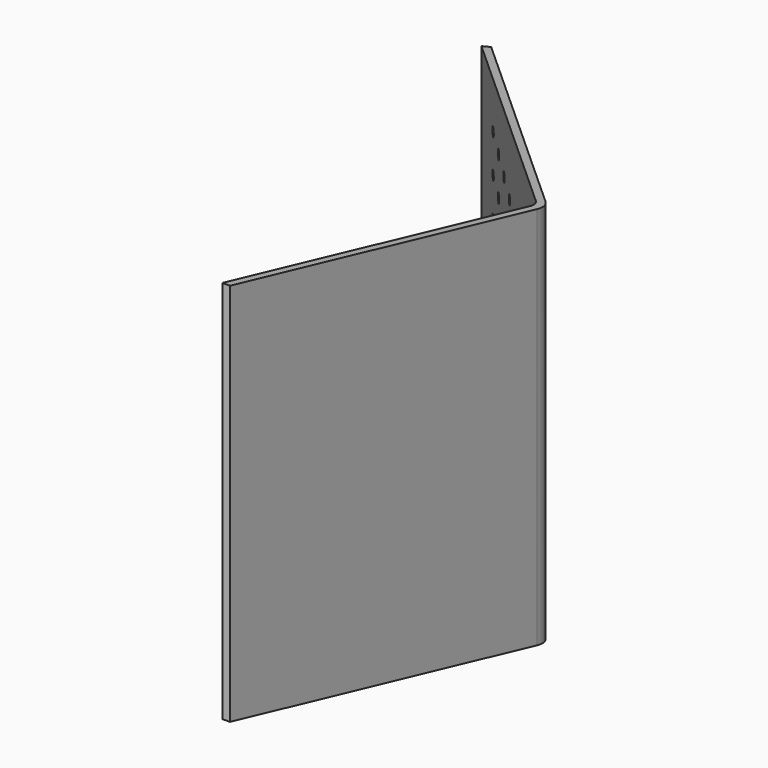
from build123d import *

# Parameters (mm, degrees)
F2_DEPTH = 500
F3_DEPTH = 250
F5_D     = 6
F5_DEPTH = 12


with BuildPart() as f2:
    # F1 (on Top) → F2 (new body, symmetric)
    with BuildSketch(Plane.XY):
        with BuildLine():
            Line((0, 0), (5, 0))
            Line((5, 0), (5, 250))
            ThreePointArc((5, 250), (3.477591, 257.653669), (-0.857864, 264.142136))
            Line((-0.857864, 264.142136), (-177.63456, 440.918831))
            Line((-177.63456, 440.918831), (-181.170094, 437.383297))
            Line((-181.170094, 437.383297), (-4.393398, 260.606602))
            ThreePointArc((-4.393398, 260.606602), (-1.141807, 255.740251), (0, 250))
            Line((0, 250), (0, 0))
        make_face()
    extrude(amount=F2_DEPTH, both=True)

    # F0 (on Right) → F3 (intersect, symmetric)
    with BuildSketch(Plane.YZ):
        Polygon((800, -184.694553), (0, 0), (0, -250), (800, -434.694553), align=None)
    extrude(amount=F3_DEPTH, both=True, mode=Mode.INTERSECT)

    # F5
    with Locations(Plane(origin=(131.642136, 131.642136, 0), x_dir=(-0.707107, 0.707107, 0), z_dir=(0.707107, 0.707107, 0))):
        with Locations((208.493665, -122.293395), (233.493665, -122.293395), (258.493665, -122.293395), (283.493665, -122.293395), (308.493665, -122.293395), (208.493665, -147.293395), (308.493665, -147.293395), (258.493665, -172.293395), (258.493665, -147.293395), (258.493665, -297.293395), (308.493665, -247.293395), (208.493665, -172.293395), (208.493665, -197.293395), (208.493665, -247.293395), (208.493665, -297.293395), (308.493665, -272.293395), (258.493665, -222.293395), (383.493665, -122.293395), (258.493665, -272.293395), (333.493665, -197.293395), (358.493665, -272.293395), (308.493665, -197.293395), (258.493665, -197.293395), (283.493665, -147.293395), (283.493665, -222.293395), (233.493665, -222.293395), (333.493665, -172.293395), (283.493665, -172.293395), (233.493665, -272.293395), (258.493665, -247.293395), (383.493665, -297.293395), (283.493665, -297.293395), (333.493665, -297.293395), (233.493665, -297.293395), (383.493665, -172.293395), (383.493665, -247.293395), (383.493665, -147.293395), (333.493665, -247.293395), (308.493665, -172.293395), (333.493665, -147.293395), (283.493665, -247.293395), (233.493665, -247.293395), (358.493665, -247.293395), (383.493665, -272.293395), (283.493665, -272.293395), (333.493665, -272.293395), (358.493665, -197.293395), (383.493665, -222.293395), (233.493665, -147.293395), (333.493665, -222.293395), (308.493665, -297.293395), (233.493665, -172.293395), (233.493665, -197.293395), (358.493665, -147.293395), (358.493665, -222.293395), (283.493665, -197.293395), (358.493665, -172.293395), (383.493665, -197.293395), (308.493665, -222.293395), (208.493665, -272.293395), (358.493665, -297.293395), (208.493665, -222.293395), (358.493665, -122.293395), (333.493665, -122.293395)):
            Hole(F5_D / 2, depth=F5_DEPTH)


solid = f2.part
